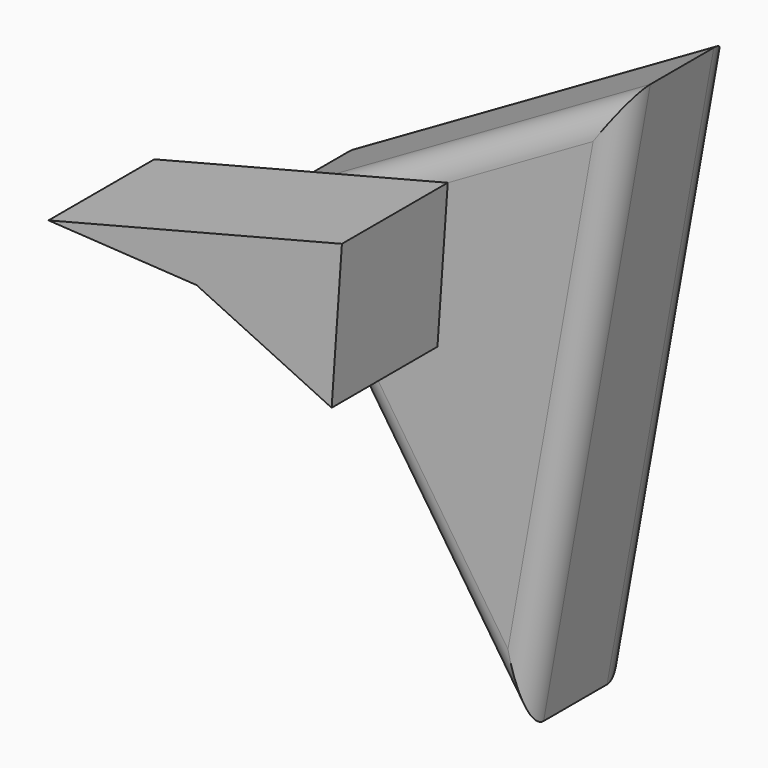
from build123d import *

# Parameters (mm, degrees)
F1_DEPTH = 25.4
F2_R     = 5.08
F3_R     = 5.08
F5_DEPTH = 25.4


with BuildPart() as f1:
    # F0 (on Front) → F1 (new body)
    with BuildSketch(Plane.XZ):
        Polygon((69.982089, 40.257905), (0, 0), (49.499534, -74.041769), align=None)
    extrude(amount=F1_DEPTH)

    # F2
    f2_edges = [f1.edges().sort_by_distance(p)[0] for p in [
        (34.991045, -25.4, 20.128952),
        (24.749767, -25.4, -37.020884),
        (59.740812, -25.4, -16.891932),
    ]]
    fillet(f2_edges, radius=F2_R)

    # F3
    f3_edges = [f1.edges().sort_by_distance(p)[0] for p in [
        (34.991045, 0, 20.128952),
        (24.749767, 0, -37.020884),
        (59.740812, 0, -16.891932),
    ]]
    fillet(f3_edges, radius=F3_R)

    # F4 (on face) → F5 (join)
    with BuildSketch(Plane.XZ.offset(25.4)):
        Polygon((-21.201186, 0), (7.243107, -1.693906), (33.173189, -14.002405), (35.150089, 14.359867), align=None)
    extrude(amount=F5_DEPTH)


solid = f1.part
